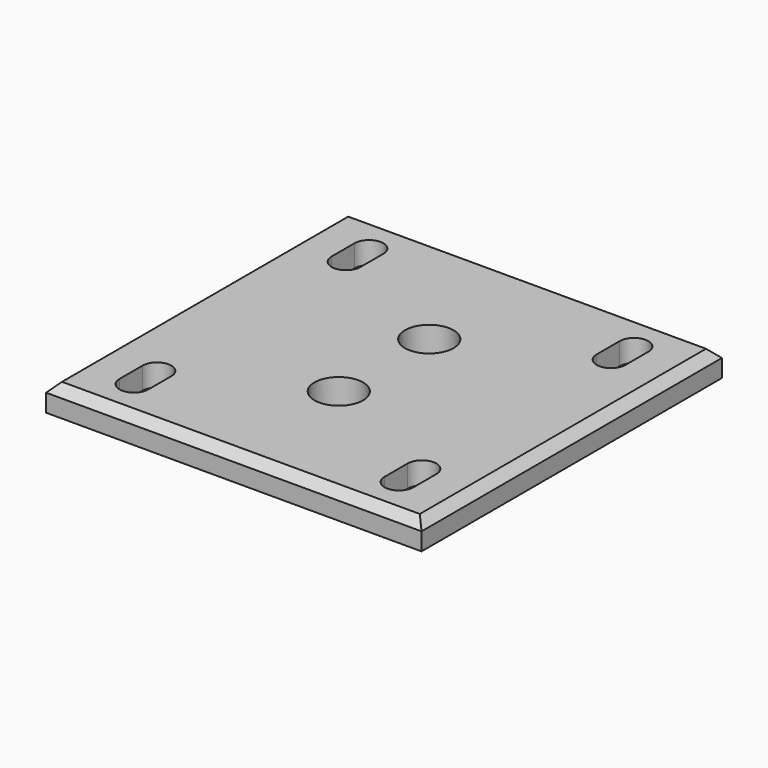
from build123d import *

# Parameters (mm, degrees)
F0_W     = 85
F0_H     = 85
F1_DEPTH = 6
F2_R     = 5.5
F3_DEPTH = 6.001
F5_D     = 6
F6_SIZE  = 2
F8_DEPTH = 5


with BuildPart() as f1:
    # F0 (on Top) → F1 (new body)
    with BuildSketch(Plane.XY):
        Rectangle(F0_W, F0_H)
    extrude(amount=F1_DEPTH)

    # F2 (on face) → F3 (cut, through all)
    with BuildSketch(Plane.XY.offset(6)):
        with Locations((0, 12.8)):
            Circle(F2_R)
        with Locations((0, -12.8)):
            Circle(F2_R)
    extrude(amount=-F3_DEPTH, mode=Mode.SUBTRACT)

    # F5 (through all)
    with Locations(Plane.XY.offset(6)):
        with Locations((-30, -30), (-30, 30), (30, 30), (30, -30)):
            Hole(F5_D / 2)

    # F6
    f6_edges = [f1.edges().sort_by_distance(p)[0] for p in [
        (-42.5, 0, 6),
        (0, -42.5, 6),
        (42.5, 0, 6),
        (0, 42.5, 6),
    ]]
    chamfer(f6_edges, length=F6_SIZE)

    # F7 (on face) → F8 (cut)
    with BuildSketch(Plane.XY.offset(6)):
        with BuildLine():
            ThreePointArc((33.25, 33.25), (30, 36.5), (26.75, 33.25))
            Line((26.75, 33.25), (26.75, 26.75))
            ThreePointArc((26.75, 26.75), (30, 23.5), (33.25, 26.75))
            Line((33.25, 26.75), (33.25, 33.25))
        make_face()
        with BuildLine():
            Line((-26.75, 26.75), (-26.75, 33.25))
            ThreePointArc((-26.75, 33.25), (-30, 36.5), (-33.25, 33.25))
            Line((-33.25, 33.25), (-33.25, 26.75))
            ThreePointArc((-33.25, 26.75), (-30, 23.5), (-26.75, 26.75))
        make_face()
        with BuildLine():
            Line((26.75, -26.75), (26.75, -33.25))
            ThreePointArc((26.75, -33.25), (30, -36.5), (33.25, -33.25))
            Line((33.25, -33.25), (33.25, -26.75))
            ThreePointArc((33.25, -26.75), (30, -23.5), (26.75, -26.75))
        make_face()
        with BuildLine():
            ThreePointArc((-33.25, -33.25), (-30, -36.5), (-26.75, -33.25))
            Line((-26.75, -33.25), (-26.75, -26.75))
            ThreePointArc((-26.75, -26.75), (-30, -23.5), (-33.25, -26.75))
            Line((-33.25, -26.75), (-33.25, -33.25))
        make_face()
    extrude(amount=-F8_DEPTH, mode=Mode.SUBTRACT)


solid = f1.part
